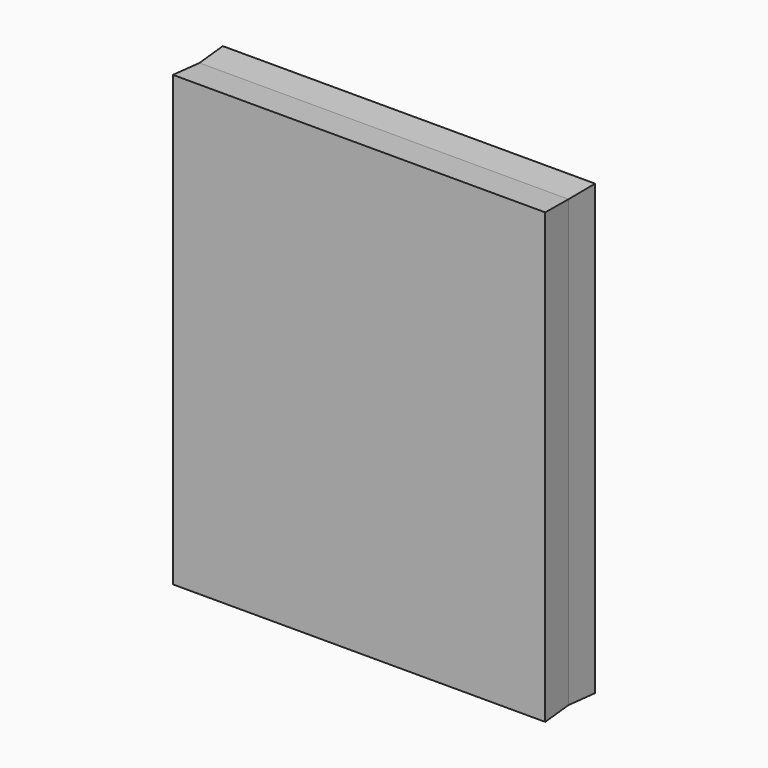
from build123d import *

# Parameters (mm, degrees)
F0_W     = 75.2411931753
F0_H     = 90.7979011536
F1_DEPTH = 6.35
F1_TAPER = -3


with BuildPart() as f1:
    # F0 (on Front) → F1 (new body, symmetric)
    with BuildSketch(Plane.XZ):
        with Locations((37.6205965877, 45.3989505768)):
            Rectangle(F0_W, F0_H)
    extrude(amount=F1_DEPTH, both=True, taper=F1_TAPER)


solid = f1.part
